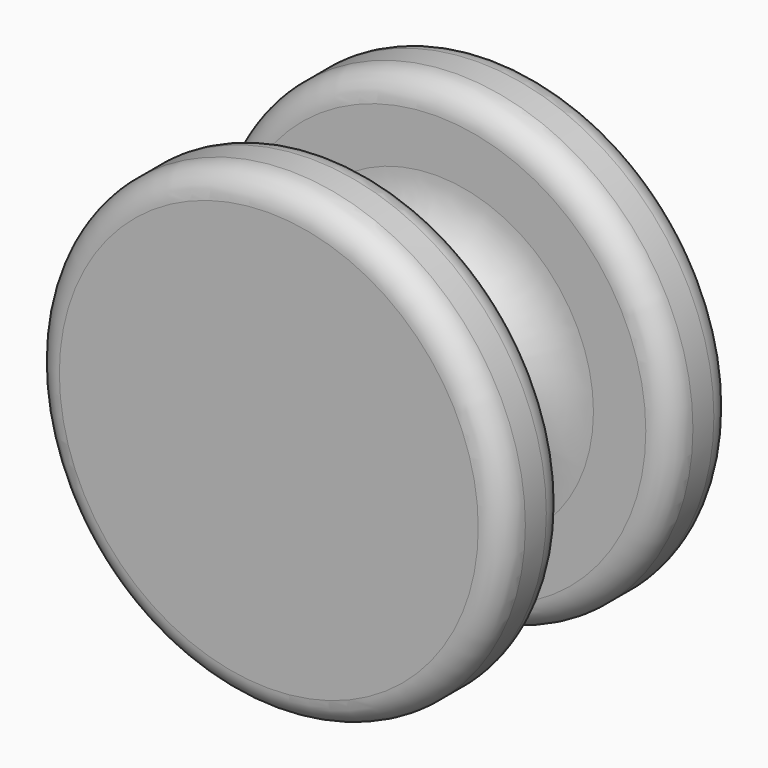
from build123d import *


with BuildPart() as f1:
    # F0 (on Top) → F1 (revolve)
    with BuildSketch(Plane.XY):
        with BuildLine():
            Line((0, 11), (0, 0))
            Line((0, 0), (8, 0))
            ThreePointArc((8, 0), (8.707107, 0.292893), (9, 1))
            Line((9, 1), (9, 2))
            ThreePointArc((9, 2), (8.707107, 2.707107), (8, 3))
            Line((8, 3), (4.5, 3))
            ThreePointArc((4.5, 3), (3.792893, 3.292893), (3.5, 4))
            Line((3.5, 4), (3.5, 5.5))
            ThreePointArc((3.5, 5.5), (4.232233, 7.267767), (6, 8))
            Line((6, 8), (8, 8))
            ThreePointArc((8, 8), (8.707107, 8.292893), (9, 9))
            Line((9, 9), (9, 10))
            ThreePointArc((9, 10), (8.707107, 10.707107), (8, 11))
            Line((8, 11), (0, 11))
        make_face()
    revolve(axis=Axis((0, 5.5, 0), (0, -1, 0)))


solid = f1.part
